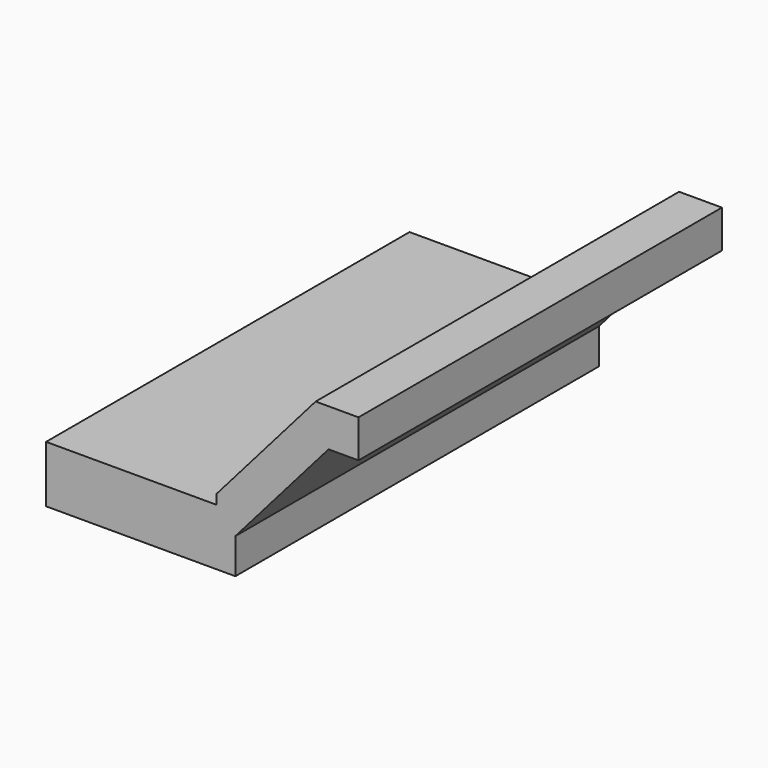
from build123d import *

# Parameters (mm, degrees)
F0_W     = 57.15
F0_H     = 19.05
F1_DEPTH = 152.4


with BuildPart() as f1:
    # F0 (on Front) → F1 (new body)
    with BuildSketch(Plane.XZ):
        Polygon((4.745863, -11.133557), (4.745863, -30.183557), (11.100308, -30.183557), (11.100308, -18.322442), (42.355059, 17.474692), (52.404112, 17.474692), (52.404112, 30.183557), (38.034493, 30.183557), (4.745863, -7.943037), align=None)
        with Locations((-23.829137, -20.658557)):
            Rectangle(F0_W, F0_H)
    extrude(amount=F1_DEPTH)


solid = f1.part
